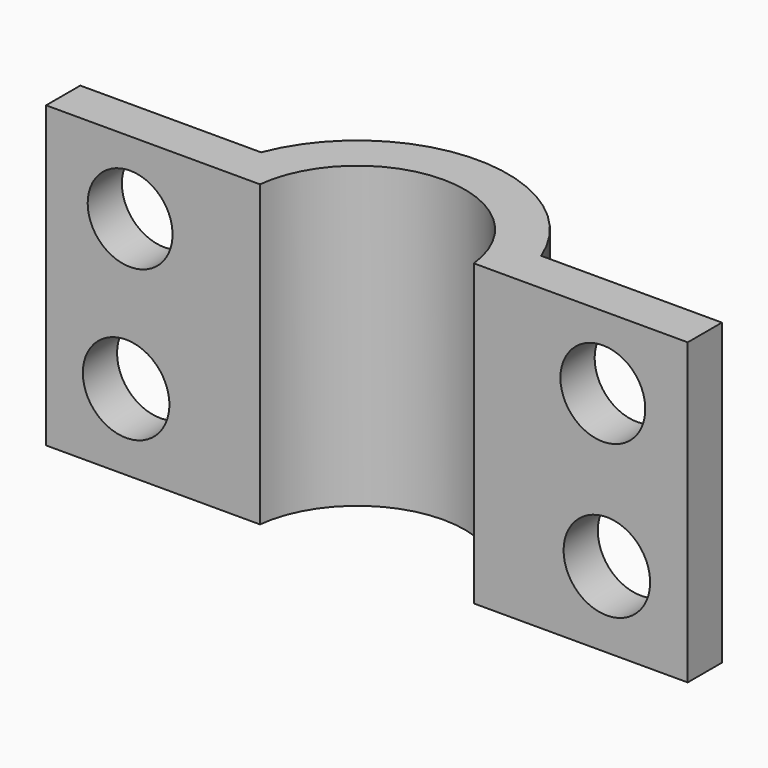
from build123d import *

# Parameters (mm, degrees)
F1_DEPTH = 7
F2_R     = 0.992082
F2_R_2   = 1.011657
F3_DEPTH = 25


with BuildPart() as f1:
    # F0 (on Top) → F1 (new body)
    with BuildSketch(Plane.XY):
        with BuildLine():
            Line((0, 1), (0, 0))
            Line((0, 0), (5, 0))
            ThreePointArc((5, 0), (7.5, 2.236839), (10, 0))
            Line((10, 0), (15, 0))
            Line((15, 0), (15, 1))
            Line((15, 1), (10.774703, 1))
            ThreePointArc((10.774703, 1), (7.5, 3.236839), (4.225297, 1))
            Line((4.225297, 1), (0, 1))
        make_face()
    extrude(amount=F1_DEPTH)

    # F2 (on face) → F3 (cut)
    with BuildSketch(Plane(origin=(0, 1, 0), x_dir=(-1, 0, 0), z_dir=(0, 1, 0))):
        with Locations((-13.016663, 5.302356)):
            Circle(F2_R)
        with Locations((-13.110314, 1.77487)):
            Circle(F2_R_2)
        with Locations((-1.87096, 1.77487)):
            Circle(F2_R_2)
        with Locations((-1.96461, 5.302356)):
            Circle(F2_R)
    extrude(amount=-F3_DEPTH, mode=Mode.SUBTRACT)


solid = f1.part
